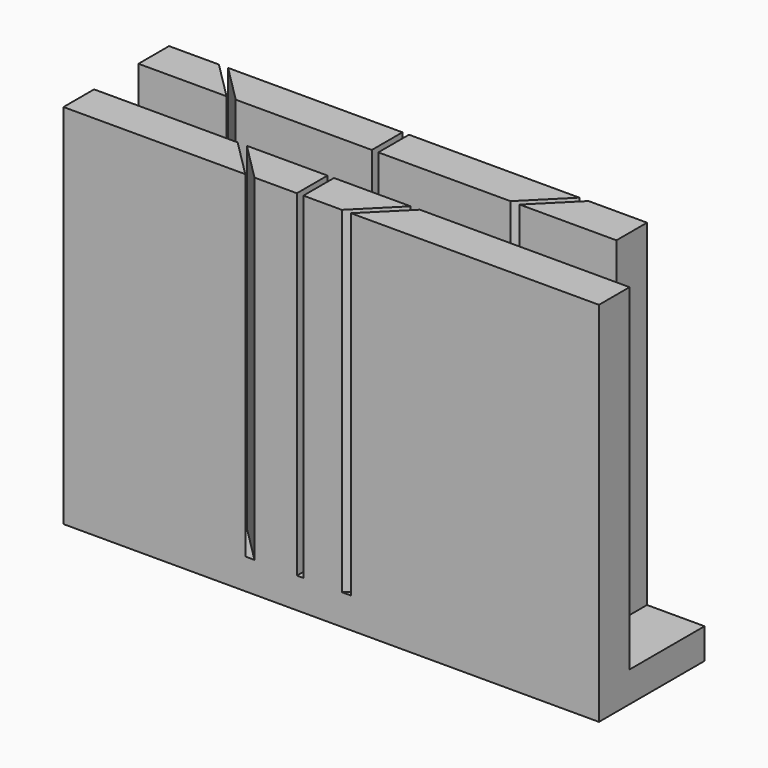
from build123d import *

# Parameters (mm, degrees)
F0_W     = 140
F0_H     = 34.5
F1_DEPTH = 96
F2_W     = 140
F2_H     = 14.5
F3_DEPTH = 88
F4_W     = 1.7
F4_H     = 35.4929193519
F4_W_2   = 15.0318985057
F4_H_2   = 10
F5_DEPTH = 88


with BuildPart() as f1:
    # F0 (on Top) → F1 (new body)
    with BuildSketch(Plane.XY):
        with Locations((41.4941184592, -5.2499999292)):
            Rectangle(F0_W, F0_H)
    extrude(amount=F1_DEPTH)

    # F2 (on face) → F3 (cut)
    with BuildSketch(Plane.XY.offset(96)):
        with Locations((41.4941184592, -5.2499999292)):
            Rectangle(F2_W, F2_H)
    extrude(amount=-F3_DEPTH, mode=Mode.SUBTRACT)

    # F4 (on face) → F5 (cut)
    with BuildSketch(Plane.XY.offset(96)):
        Polygon((-13.0666754805, 12.0000000708), (-15.4708385365, 12.0000000708), (20.0220808154, -23.4929192811), (22.4262438715, -23.4929192811), align=None)
        Polygon((81.1649545925, 12.0000000708), (78.7607915364, 12.0000000708), (42.6027141511, -24.1580773145), (45.0068772072, -24.1580773145), align=None)
        with Locations((33.3644790113, -5.7464596052)):
            Rectangle(F4_W, F4_H)
        with Locations((103.9781692064, 7.0000000708)):
            Rectangle(F4_W_2, F4_H_2)
    extrude(amount=-F5_DEPTH, mode=Mode.SUBTRACT)


solid = f1.part
